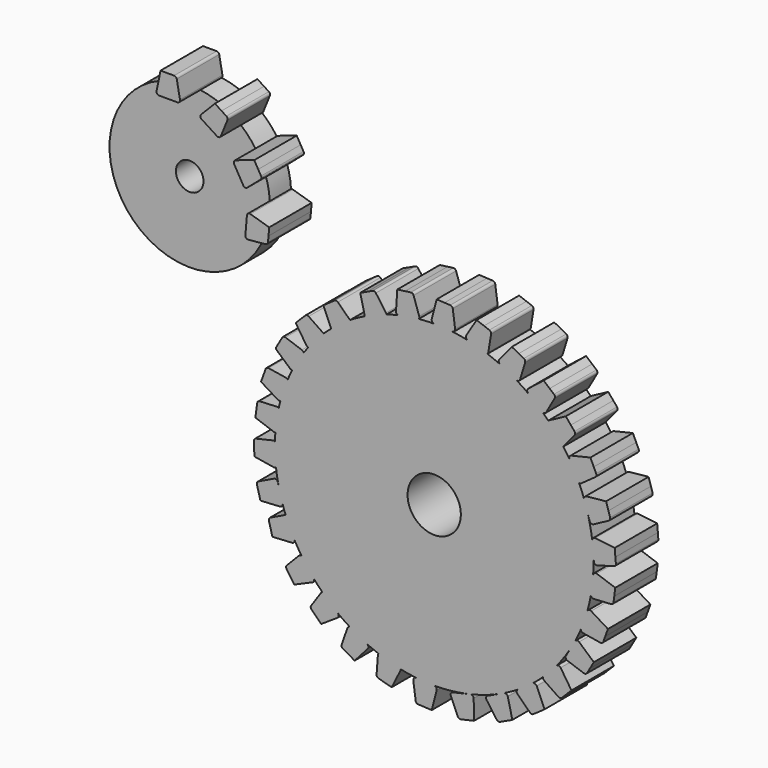
from build123d import *

# Parameters (mm, degrees)
F0_R     = 38.1
F0_R_2   = 6.3736727346
F1_DEPTH = 12.7
F2_R     = 19.1808814853
F2_R_2   = 3.2978412637
F3_DEPTH = 6.35
F5_DEPTH = 12.7
F7_DEPTH = 12.7


with BuildPart() as f1:
    # F0 (on Front) → F1 (new body)
    with BuildSketch(Plane.XZ):
        Circle(F0_R)
        Circle(F0_R_2, mode=Mode.SUBTRACT)
    extrude(amount=F1_DEPTH)

    # F4 (on face) → F5 (join)
    with BuildSketch(Plane.XZ.offset(12.7)):
        with BuildLine():
            Line((-5.6133319537, 42.892954693), (-6.9681593361, 42.7058150374))
            Line((-6.9681593361, 42.7058150374), (-8.8360873508, 42.4478017955))
            Line((-8.8360873508, 42.4478017955), (-9.1413788206, 37.7520853533))
            ThreePointArc((-9.1413788206, 37.7520853533), (-9.0252119591, 37.342888439), (-8.6768323715, 37.0988218141))
            ThreePointArc((-8.6768323715, 37.0988218141), (-6.1997040053, 37.5922022532), (-3.6953289512, 37.9203710945))
            ThreePointArc((-3.6953289512, 37.9203710945), (-3.570120266, 38.2041432186), (-3.5942600142, 38.5133698439))
            Line((-3.5942600142, 38.5133698439), (-4.9246121387, 42.4664646817))
            ThreePointArc((-4.9246121387, 42.4664646817), (-5.1921312813, 42.8037964326), (-5.6133319537, 42.892954693))
        make_face()
        with BuildLine():
            ThreePointArc((-0.5828165099, 38.8934139127), (-0.4798664959, 38.358271554), (0, 38.1))
            ThreePointArc((0, 38.1), (1.9139507452, 38.051896044), (3.8230684928, 37.9077056454))
            Line((3.8230684928, 37.9077056454), (4.3476667519, 37.881319175))
            ThreePointArc((4.3476667519, 37.881319175), (4.8474349021, 38.086188168), (5.0086926337, 38.6016835145))
            Line((5.0086926337, 38.6016835145), (4.4427176952, 42.7340518356))
            ThreePointArc((4.4427176952, 42.7340518356), (4.2431538168, 43.1155403154), (3.8461234563, 43.2820518606))
            Line((3.8461234563, 43.2820518606), (2.4802286205, 43.3521217121))
            Line((2.4802286205, 43.3521217121), (0.597041683, 43.4487284388))
            Line((0.597041683, 43.4487284388), (-0.5828165099, 38.8934139127))
        make_face()
        with BuildLine():
            ThreePointArc((7.6781040093, 38.1796137831), (7.6194962798, 37.6378193723), (8.0024553304, 37.2501101835))
            ThreePointArc((8.0024553304, 37.2501101835), (10.3980646056, 36.6536526482), (12.7500167411, 35.9033017019))
            ThreePointArc((12.7500167411, 35.9033017019), (12.8730090683, 36.0663544898), (12.9378787327, 36.2600172142))
            Line((12.9378787327, 36.2600172142), (13.6093718384, 40.3765561222))
            ThreePointArc((13.6093718384, 40.3765561222), (13.5305321264, 40.7998095943), (13.1998378538, 41.075491476))
            Line((13.1998378538, 41.075491476), (11.9146287771, 41.5432693247))
            Line((11.9146287771, 41.5432693247), (10.1426849336, 42.1882041406))
            Line((10.1426849336, 42.1882041406), (7.6781040093, 38.1796137831))
        make_face()
        with BuildLine():
            ThreePointArc((22.4822558252, 31.7557851377), (22.240396448, 31.2674409034), (22.4661533243, 30.7714470704))
            ThreePointArc((22.4661533243, 30.7714470704), (24.2760708911, 29.3646451041), (25.9981079914, 27.8515418042))
            ThreePointArc((25.9981079914, 27.8515418042), (26.4298800743, 27.8585283839), (26.757345125, 28.1400289779))
            Line((26.757345125, 28.1400289779), (28.8073025475, 31.7724483008))
            ThreePointArc((28.8073025475, 31.7724483008), (28.8792657947, 32.1969250292), (28.6639327804, 32.5697398555))
            Line((28.6639327804, 32.5697398555), (27.6188906483, 33.4520467345))
            Line((27.6188906483, 33.4520467345), (26.1780698466, 34.6685011391))
            Line((26.1780698466, 34.6685011391), (22.4822558252, 31.7557851377))
        make_face()
        with BuildLine():
            ThreePointArc((27.3333850928, 26.6125894026), (27.3114712326, 26.6001647015), (27.2900674196, 26.5868806037))
            ThreePointArc((27.2900674196, 26.5868806037), (29.1746127181, 24.5041215462), (30.9005960882, 22.288184345))
            ThreePointArc((30.9005960882, 22.288184345), (30.9149102964, 22.3039975831), (30.928685337, 22.3202826473))
            Line((30.928685337, 22.3202826473), (33.5684848789, 25.5495633644))
            ThreePointArc((33.5684848789, 25.5495633644), (33.7118344216, 25.9555314794), (33.5632857215, 26.3596261287))
            Line((33.5632857215, 26.3596261287), (32.6841509363, 27.4073381673))
            Line((32.6841509363, 27.4073381673), (31.4720699617, 28.8518400234))
            Line((31.4720699617, 28.8518400234), (27.3333850928, 26.6125894026))
        make_face()
        with BuildLine():
            ThreePointArc((32.7891494179, 20.9953140808), (32.364600993, 20.6536495019), (32.3612421381, 20.1087047638))
            ThreePointArc((32.3612421381, 20.1087047638), (33.5819924942, 17.9961045818), (34.6650171223, 15.8096991721))
            ThreePointArc((34.6650171223, 15.8096991721), (34.9191509372, 15.8145771706), (35.1510120413, 15.9187319554))
            Line((35.1510120413, 15.9187319554), (38.5366619467, 18.3547472037))
            ThreePointArc((38.5366619467, 18.3547472037), (38.780199252, 18.709780699), (38.7412996174, 19.1385533896))
            Line((38.7412996174, 19.1385533896), (38.1632884529, 20.3781023319))
            Line((38.1632884529, 20.3781023319), (37.366372727, 22.0870936212))
            Line((37.366372727, 22.0870936212), (32.7891494179, 20.9953140808))
        make_face()
        with BuildLine():
            ThreePointArc((36.4331734182, 13.606153238), (35.9669321561, 13.3240271403), (35.8910812687, 12.7843766123))
            ThreePointArc((35.8910812687, 12.7843766123), (36.3546601236, 11.3995038182), (36.7648248936, 9.997882303))
            Line((36.7648248936, 9.997882303), (37.1935457683, 8.6306296633))
            ThreePointArc((37.1935457683, 8.6306296633), (37.5590011365, 8.2329088038), (38.0984298655, 8.26040707))
            Line((38.0984298655, 8.26040707), (41.778152748, 10.2241878825))
            ThreePointArc((41.778152748, 10.2241878825), (42.0667721117, 10.5436531619), (42.0852800756, 10.9737887883))
            Line((42.0852800756, 10.9737887883), (41.6773709241, 12.27923454))
            Line((41.6773709241, 12.27923454), (41.1149782964, 14.0790790982))
            Line((41.1149782964, 14.0790790982), (36.4331734182, 13.606153238))
        make_face()
        with BuildLine():
            ThreePointArc((38.5019919868, 5.4850229618), (37.9861907966, 5.3091673913), (37.796652428, 4.7982356382))
            ThreePointArc((37.796652428, 4.7982356382), (37.9516831399, 3.3585334371), (38.0518945723, 1.913980005))
            Line((38.0518945723, 1.913980005), (38.1803858467, 0.4620188363))
            ThreePointArc((38.1803858467, 0.4620188363), (38.4522997231, -0.0046741592), (38.9851235192, -0.0932083933))
            Line((38.9851235192, -0.0932083933), (42.9997600362, 1.0379366938))
            ThreePointArc((42.9997600362, 1.0379366938), (43.3500388519, 1.2882643853), (43.4601340494, 1.7044833773))
            Line((43.4601340494, 1.7044833773), (43.3409319303, 3.0669698328))
            Line((43.3409319303, 3.0669698328), (43.176585549, 4.9454575671))
            Line((43.176585549, 4.9454575671), (38.5019919868, 5.4850229618))
        make_face()
        with BuildLine():
            ThreePointArc((38.860824647, -1.8686145443), (38.3193613508, -1.9302063326), (38.0250367695, -2.3888446328))
            ThreePointArc((38.0250367695, -2.3888446328), (37.8163601745, -4.6403559297), (37.4744871005, -6.8755230024))
            ThreePointArc((37.4744871005, -6.8755230024), (37.7010473557, -7.2786909936), (38.1409870584, -7.4212639096))
            Line((38.1409870584, -7.4212639096), (42.3045969501, -7.173982206))
            ThreePointArc((42.3045969501, -7.173982206), (42.7002711865, -7.004273336), (42.8967512016, -6.6211874377))
            Line((42.8967512016, -6.6211874377), (43.071402672, -5.2646936669))
            Line((43.071402672, -5.2646936669), (43.3121981995, -3.3944681684))
            Line((43.3121981995, -3.3944681684), (38.860824647, -1.8686145443))
        make_face()
        with BuildLine():
            ThreePointArc((37.5494194901, -10.19191038), (37.0076250794, -10.1333026506), (36.6199158906, -10.5162617012))
            ThreePointArc((36.6199158906, -10.5162617012), (35.9231701651, -12.6939294659), (35.097054119, -14.825882509))
            ThreePointArc((35.097054119, -14.825882509), (35.248541107, -15.2366002066), (35.6298229213, -15.4516851034))
            Line((35.6298229213, -15.4516851034), (39.7463618292, -16.1231782091))
            ThreePointArc((39.7463618292, -16.1231782091), (40.1696153013, -16.0443384972), (40.4452971831, -15.7136442246))
            Line((40.4452971831, -15.7136442246), (40.9130750318, -14.4284351479))
            Line((40.9130750318, -14.4284351479), (41.5580098476, -12.6564913044))
            Line((41.5580098476, -12.6564913044), (37.5494194901, -10.19191038))
        make_face()
        with BuildLine():
            ThreePointArc((34.6662178073, -17.6265220224), (34.1428315964, -17.4747230639), (33.6945124401, -17.7845391119))
            ThreePointArc((33.6945124401, -17.7845391119), (33.0145744685, -19.0170416381), (32.289573184, -20.2235868133))
            Line((32.289573184, -20.2235868133), (31.5216966741, -21.5566604164))
            ThreePointArc((31.5216966741, -21.5566604164), (31.4767513766, -22.09491633), (31.8624339279, -22.473054503))
            Line((31.8624339279, -22.473054503), (35.7998298059, -23.8491755992))
            ThreePointArc((35.7998298059, -23.8491755992), (36.2303434791, -23.8450308338), (36.5592615914, -23.5672322066))
            Line((36.5592615914, -23.5672322066), (37.2431070576, -22.3827771147))
            Line((37.2431070576, -22.3827771147), (38.1859386837, -20.7497448352))
            Line((38.1859386837, -20.7497448352), (34.6662178073, -17.6265220224))
        make_face()
        with BuildLine():
            ThreePointArc((30.2427903378, -24.4970072023), (29.7765265411, -24.2149183486), (29.2632971959, -24.3981441348))
            ThreePointArc((29.2632971959, -24.3981441348), (27.6895109519, -26.1706129704), (26.0085526005, -27.8417885853))
            ThreePointArc((26.0085526005, -27.8417885853), (26.057443176, -28.1858994081), (26.2801681687, -28.452725427))
            Line((26.2801681687, -28.452725427), (29.7272341875, -30.8010293753))
            ThreePointArc((29.7272341875, -30.8010293753), (30.1441512072, -30.9084509771), (30.533761282, -30.7252483803))
            Line((30.533761282, -30.7252483803), (31.5008648149, -29.7581448475))
            Line((31.5008648149, -29.7581448475), (32.8342300876, -28.4247795747))
            Line((32.8342300876, -28.4247795747), (30.2427903378, -24.4970072023))
        make_face()
        with BuildLine():
            ThreePointArc((24.5151394805, -30.2036100452), (24.104943494, -29.8448408963), (23.5676944319, -29.9361617307))
            ThreePointArc((23.5676944319, -29.9361617307), (21.8844168459, -31.187854997), (20.1348026242, -32.3450107943))
            Line((20.1348026242, -32.3450107943), (20.0042872346, -32.4365930205))
            ThreePointArc((20.0042872346, -32.4365930205), (19.7360761829, -32.9054238429), (19.9258151851, -33.4111299031))
            Line((19.9258151851, -33.4111299031), (22.9127338243, -36.3223345703))
            ThreePointArc((22.9127338243, -36.3223345703), (23.3046633723, -36.5005210773), (23.7201671917, -36.3877568191))
            Line((23.7201671917, -36.3877568191), (24.8405140149, -35.6032815281))
            Line((24.8405140149, -35.6032815281), (26.3851589229, -34.5217095197))
            Line((26.3851589229, -34.5217095197), (24.5151394805, -30.2036100452))
        make_face()
        with BuildLine():
            ThreePointArc((17.6005146356, -34.6661223179), (17.2588500567, -34.2415738931), (16.7139053186, -34.2382150382))
            ThreePointArc((16.7139053186, -34.2382150382), (16.1362291945, -34.5142305055), (15.5539966486, -34.7805001151))
            Line((15.5539966486, -34.7805001151), (12.7704389467, -36.0818799922))
            ThreePointArc((12.7704389467, -36.0818799922), (12.4248910056, -36.4970138606), (12.5239325102, -37.0279849414))
            Line((12.5239325102, -37.0279849414), (14.9599477585, -40.4136348467))
            ThreePointArc((14.9599477585, -40.4136348467), (15.3149812537, -40.6571721521), (15.7437539444, -40.6182725175))
            Line((15.7437539444, -40.6182725175), (16.9833028867, -40.040261353))
            Line((16.9833028867, -40.040261353), (18.692294176, -39.2433456271))
            Line((18.692294176, -39.2433456271), (17.6005146356, -34.6661223179))
        make_face()
        with BuildLine():
            ThreePointArc((8.6662900741, -37.1012859124), (8.4793952658, -37.1444458288), (8.2922855391, -37.1866642836))
            Line((8.2922855391, -37.1866642836), (4.4223051761, -38.0701097742))
            ThreePointArc((4.4223051761, -38.0701097742), (3.9968447015, -38.4028602704), (3.9814609989, -38.9427703092))
            Line((3.9814609989, -38.9427703092), (5.6471231908, -42.7666904227))
            ThreePointArc((5.6471231908, -42.7666904227), (5.9426840665, -43.0797446841), (6.3699956086, -43.1323188965))
            Line((6.3699956086, -43.1323188965), (7.7036879234, -42.829262308))
            Line((7.7036879234, -42.829262308), (9.5424765916, -42.4114320374))
            Line((9.5424765916, -42.4114320374), (9.4424699067, -37.7068646344))
            ThreePointArc((9.4424699067, -37.7068646344), (9.1982220618, -37.2197106138), (8.6662900741, -37.1012859124))
        make_face()
        with BuildLine():
            ThreePointArc((0, -38.1), (-1.8327168808, -38.0558950602), (-3.6611906189, -37.9236823535))
            Line((-3.6611906189, -37.9236823535), (-4.3481236645, -37.8906006513))
            ThreePointArc((-4.3481236645, -37.8906006513), (-4.8474533415, -38.0965360342), (-5.0076102761, -38.6123744435))
            Line((-5.0076102761, -38.6123744435), (-4.4328152474, -42.7435251606))
            ThreePointArc((-4.4328152474, -42.7435251606), (-4.232437459, -43.1245867616), (-3.8350525504, -43.2902503854))
            Line((-3.8350525504, -43.2902503854), (-2.4690112485, -43.3574042972))
            Line((-2.4690112485, -43.3574042972), (-0.5856223751, -43.4499907586))
            Line((-0.5856223751, -43.4499907586), (0.5845088852, -38.8921679647))
            ThreePointArc((0.5845088852, -38.8921679647), (0.4804167357, -38.357246593), (0, -38.1))
        make_face()
        with BuildLine():
            ThreePointArc((-8.0019145364, -37.2502263584), (-10.6805723748, -36.5723307125), (-13.3030556874, -35.7020827036))
            ThreePointArc((-13.3030556874, -35.7020827036), (-13.4232981678, -35.8822263083), (-13.4760026913, -36.0923029743))
            Line((-13.4760026913, -36.0923029743), (-13.7861605569, -40.2517016893))
            ThreePointArc((-13.7861605569, -40.2517016893), (-13.6707318831, -40.6664732205), (-13.3172687429, -40.9122841445))
            Line((-13.3172687429, -40.9122841445), (-11.9961807489, -41.2662686056))
            Line((-11.9961807489, -41.2662686056), (-10.1747699138, -41.754314168))
            Line((-10.1747699138, -41.754314168), (-8.0689391339, -37.546175326))
            ThreePointArc((-8.0689391339, -37.546175326), (-8.01748914, -37.4022632547), (-8.0019145364, -37.2502263584))
        make_face()
        with BuildLine():
            ThreePointArc((-16.0726677932, -34.5438757236), (-18.1832762275, -33.4810164964), (-20.223933673, -32.2893559364))
            ThreePointArc((-20.223933673, -32.2893559364), (-20.5542383627, -32.422133684), (-20.7611831843, -32.7117972114))
            Line((-20.7611831843, -32.7117972114), (-22.1373042805, -36.6491930895))
            ThreePointArc((-22.1373042805, -36.6491930895), (-22.1331595151, -37.0797067626), (-21.8553608879, -37.4086248749))
            Line((-21.8553608879, -37.4086248749), (-20.6709057959, -38.0924703411))
            Line((-20.6709057959, -38.0924703411), (-19.0378735164, -39.0353019672))
            Line((-19.0378735164, -39.0353019672), (-15.9146507036, -35.5155810908))
            ThreePointArc((-15.9146507036, -35.5155810908), (-15.7628517451, -34.9921948799), (-16.0726677932, -34.5438757236))
        make_face()
        with BuildLine():
            ThreePointArc((-23.0280282348, -30.3532521423), (-24.9442850962, -28.7991777841), (-26.7559404878, -27.1243368327))
            ThreePointArc((-26.7559404878, -27.1243368327), (-26.93959516, -27.2202229145), (-27.082609527, -27.3701231151))
            Line((-27.082609527, -27.3701231151), (-29.4309134753, -30.817189134))
            ThreePointArc((-29.4309134753, -30.817189134), (-29.5383350771, -31.2341061536), (-29.3551324803, -31.6237162284))
            Line((-29.3551324803, -31.6237162284), (-28.3880289475, -32.5908197613))
            Line((-28.3880289475, -32.5908197613), (-27.0546636747, -33.9241850341))
            Line((-27.0546636747, -33.9241850341), (-23.1268913023, -31.3327452842))
            ThreePointArc((-23.1268913023, -31.3327452842), (-22.8448024486, -30.8664814875), (-23.0280282348, -30.3532521423))
        make_face()
        with BuildLine():
            ThreePointArc((-28.8584245617, -24.8757177146), (-30.3664314146, -23.0106463), (-31.7540993293, -21.0543861413))
            ThreePointArc((-31.7540993293, -21.0543861413), (-32.0665532749, -21.0704878169), (-32.3333927341, -21.2338384678))
            Line((-32.3333927341, -21.2338384678), (-35.2445974013, -24.220757107))
            ThreePointArc((-35.2445974013, -24.220757107), (-35.4227839083, -24.612686655), (-35.3100196501, -25.0281904744))
            Line((-35.3100196501, -25.0281904744), (-34.5255443591, -26.1485372976))
            Line((-34.5255443591, -26.1485372976), (-33.4439723507, -27.6931822056))
            Line((-33.4439723507, -27.6931822056), (-29.1258728762, -25.8231627632))
            ThreePointArc((-29.1258728762, -25.8231627632), (-28.7671037274, -25.4129667767), (-28.8584245617, -24.8757177146))
        make_face()
        with BuildLine():
            ThreePointArc((-16.5973614585, 34.2948624814), (-14.0388393953, 35.419217784), (-11.4047830745, 36.3530043191))
            ThreePointArc((-11.4047830745, 36.3530043191), (-11.4430138669, 36.5124142022), (-11.5207793331, 36.6567251048))
            Line((-11.5207793331, 36.6567251048), (-13.9567945814, 40.0423750102))
            ThreePointArc((-13.9567945814, 40.0423750102), (-14.3118280766, 40.2859123155), (-14.7406007673, 40.2470126809))
            Line((-14.7406007673, 40.2470126809), (-15.9801497096, 39.6690015164))
            Line((-15.9801497096, 39.6690015164), (-17.6891409989, 38.8720857905))
            Line((-17.6891409989, 38.8720857905), (-16.5973614585, 34.2948624814))
        make_face()
        with BuildLine():
            ThreePointArc((-24.6518830672, 29.0498650813), (-22.4589980455, 30.7766698457), (-20.1455785434, 32.3383002824))
            Line((-20.1455785434, 32.3383002824), (-23.049477411, 35.1685896064))
            ThreePointArc((-23.049477411, 35.1685896064), (-23.441406959, 35.3467761134), (-23.8569107784, 35.2340118552))
            Line((-23.8569107784, 35.2340118552), (-24.9772576016, 34.4495365642))
            Line((-24.9772576016, 34.4495365642), (-26.5219025095, 33.3679645558))
            Line((-26.5219025095, 33.3679645558), (-24.6518830672, 29.0498650813))
        make_face()
        with BuildLine():
            ThreePointArc((-36.7805576297, 9.9398481099), (-36.0070046406, 12.4541405489), (-35.0618006588, 14.9090621625))
            ThreePointArc((-35.0618006588, 14.9090621625), (-35.2501426299, 15.10962457), (-35.5056416593, 15.2116942685))
            Line((-35.5056416593, 15.2116942685), (-39.6221805673, 15.8831873742))
            ThreePointArc((-39.6221805673, 15.8831873742), (-40.0454340394, 15.8043476623), (-40.3211159211, 15.4736533897))
            Line((-40.3211159211, 15.4736533897), (-40.7888937698, 14.188444313))
            Line((-40.7888937698, 14.188444313), (-41.4338285856, 12.4165004695))
            Line((-41.4338285856, 12.4165004695), (-37.4252382282, 9.9519195452))
            ThreePointArc((-37.4252382282, 9.9519195452), (-37.104544106, 9.8579689793), (-36.7805576297, 9.9398481099))
        make_face()
        with BuildLine():
            ThreePointArc((-37.9936602842, 2.8446051056), (-37.6882363784, 5.5863081442), (-37.185227898, 8.2987243702))
            ThreePointArc((-37.185227898, 8.2987243702), (-37.3713487354, 8.3859962799), (-37.5755966068, 8.4092376079))
            Line((-37.5755966068, 8.4092376079), (-41.741480505, 8.2037943821))
            ThreePointArc((-41.741480505, 8.2037943821), (-42.1388396053, 8.0380688645), (-42.3391580379, 7.6569760576))
            Line((-42.3391580379, 7.6569760576), (-42.5274275027, 6.3023052138))
            Line((-42.5274275027, 6.3023052138), (-42.7869984358, 4.4345930219))
            Line((-42.7869984358, 4.4345930219), (-38.3511776226, 2.864099628))
            ThreePointArc((-38.3511776226, 2.864099628), (-38.1738214108, 2.8286321762), (-37.9936602842, 2.8446051056))
        make_face()
        with BuildLine():
            ThreePointArc((-33.4329385069, -18.2715249171), (-34.5663449419, -16.0242877332), (-35.5489072036, -13.7071221134))
            Line((-35.5489072036, -13.7071221134), (-39.2099682784, -15.4718635174))
            ThreePointArc((-39.2099682784, -15.4718635174), (-39.5114566243, -15.7792134468), (-39.5476035589, -16.2082269675))
            Line((-39.5476035589, -16.2082269675), (-39.1936190978, -17.5293149615))
            Line((-39.1936190978, -17.5293149615), (-38.7055735354, -19.3507257966))
            Line((-38.7055735354, -19.3507257966), (-34.0083030057, -19.0703593271))
            ThreePointArc((-34.0083030057, -19.0703593271), (-33.5308749939, -18.8076074611), (-33.4329385069, -18.2715249171))
        make_face()
        with BuildLine():
            ThreePointArc((-36.2966380714, -11.5829212513), (-36.7919085851, -9.8977503842), (-37.2089855849, -8.191543917))
            Line((-37.2089855849, -8.191543917), (-37.4275178629, -7.379215935))
            ThreePointArc((-37.4275178629, -7.379215935), (-37.7763411447, -6.9668304038), (-38.3164439585, -6.9721650849))
            Line((-38.3164439585, -6.9721650849), (-42.073667843, -8.7832598516))
            ThreePointArc((-42.073667843, -8.7832598516), (-42.3751561889, -9.090609781), (-42.4113031235, -9.5196233017))
            Line((-42.4113031235, -9.5196233017), (-42.0573186623, -10.8407112957))
            Line((-42.0573186623, -10.8407112957), (-41.5692731, -12.6621221308))
            Line((-41.5692731, -12.6621221308), (-36.8720025703, -12.3817556613))
            ThreePointArc((-36.8720025703, -12.3817556613), (-36.3945745585, -12.1190037953), (-36.2966380714, -11.5829212513))
        make_face()
        with BuildLine():
            ThreePointArc((-37.8391164648, -4.4509847407), (-38.0583831472, -1.7803011604), (-38.0893877503, 0.8991889737))
            ThreePointArc((-38.0893877503, 0.8991889737), (-38.3280018375, 0.995847484), (-38.5853796338, 0.9898291596))
            Line((-38.5853796338, 0.9898291596), (-42.648846462, 0.0490672835))
            ThreePointArc((-42.648846462, 0.0490672835), (-43.0105291759, -0.1844810335), (-43.1401099882, -0.5950513867))
            Line((-43.1401099882, -0.5950513867), (-43.0852262096, -1.9616406656))
            Line((-43.0852262096, -1.9616406656), (-43.0095568299, -3.845785046))
            Line((-43.0095568299, -3.845785046), (-38.3655719451, -4.604968934))
            ThreePointArc((-38.3655719451, -4.604968934), (-38.0848603676, -4.5877522065), (-37.8391164648, -4.4509847407))
        make_face()
        with BuildLine():
            ThreePointArc((15.5754481112, 35.6477157922), (15.4438585305, 35.1188866783), (15.7706610238, 34.6827947385))
            ThreePointArc((15.7706610238, 34.6827947385), (17.7336223305, 33.7213380375), (19.6382177957, 32.6488958742))
            ThreePointArc((19.6382177957, 32.6488958742), (20.1706567548, 32.635420399), (20.5260682946, 33.0321009644))
            Line((20.5260682946, 33.0321009644), (21.749983045, 37.0194344413))
            ThreePointArc((21.749983045, 37.0194344413), (21.7293101094, 37.4494714531), (21.4390862859, 37.7674798399))
            Line((21.4390862859, 37.7674798399), (20.2292458638, 38.4053392598))
            Line((20.2292458638, 38.4053392598), (18.5612143143, 39.2847689905))
            Line((18.5612143143, 39.2847689905), (15.5754481112, 35.6477157922))
        make_face()
        with BuildLine():
            ThreePointArc((-30.1364389457, 23.3110499049), (-28.3697200617, 25.4316531831), (-26.4541128881, 27.4187875608))
            ThreePointArc((-26.4541128881, 27.4187875608), (-26.5166558068, 27.4849098202), (-26.5880092952, 27.5414115863))
            Line((-26.5880092952, 27.5414115863), (-30.035075314, 29.8897155346))
            ThreePointArc((-30.035075314, 29.8897155346), (-30.4519923337, 29.9971371364), (-30.8416024085, 29.8139345396))
            Line((-30.8416024085, 29.8139345396), (-31.8087059413, 28.8468310068))
            Line((-31.8087059413, 28.8468310068), (-33.1420712141, 27.513465734))
            Line((-33.1420712141, 27.513465734), (-30.5506314643, 23.5856933616))
            ThreePointArc((-30.5506314643, 23.5856933616), (-30.371519312, 23.4061685243), (-30.1364389457, 23.3110499049))
        make_face()
        with BuildLine():
            ThreePointArc((-3.6953289512, 37.9203710945), (-6.1997040053, 37.5922022532), (-8.6768323715, 37.0988218141))
            ThreePointArc((-8.6768323715, 37.0988218141), (-8.5493805224, 37.077256187), (-8.420202183, 37.0819473239))
            Line((-8.420202183, 37.0819473239), (-4.1085790233, 37.6818916693))
            ThreePointArc((-4.1085790233, 37.6818916693), (-3.878703892, 37.7608423568), (-3.6953289512, 37.9203710945))
        make_face()
        with BuildLine():
            ThreePointArc((3.8230684928, 37.9077056454), (1.9139507452, 38.051896044), (0, 38.1))
            Line((0, 38.1), (3.8230684928, 37.9077056454))
        make_face()
        with BuildLine():
            ThreePointArc((12.7500167411, 35.9033017019), (10.3980646056, 36.6536526482), (8.0024553304, 37.2501101835))
            Line((8.0024553304, 37.2501101835), (12.0945751346, 35.7653263618))
            ThreePointArc((12.0945751346, 35.7653263618), (12.4419673863, 35.7408662771), (12.7500167411, 35.9033017019))
        make_face()
        with BuildLine():
            ThreePointArc((25.9981079914, 27.8515418042), (24.2760708911, 29.3646451041), (22.4661533243, 30.7714470704))
            Line((22.4661533243, 30.7714470704), (25.7951742911, 27.9665144702))
            ThreePointArc((25.7951742911, 27.9665144702), (25.8913170833, 27.8996308533), (25.9981079914, 27.8515418042))
        make_face()
        with BuildLine():
            ThreePointArc((30.9005960882, 22.288184345), (29.1746127181, 24.5041215462), (27.2900674196, 26.5868806037))
            ThreePointArc((27.2900674196, 26.5868806037), (27.0075193398, 26.1478492182), (27.1495297768, 25.6454400119))
            Line((27.1495297768, 25.6454400119), (29.9510175717, 22.3135196011))
            ThreePointArc((29.9510175717, 22.3135196011), (30.4201118499, 22.0874011714), (30.9005960882, 22.288184345))
        make_face()
        with BuildLine():
            ThreePointArc((34.6650171223, 15.8096991721), (33.5819924942, 17.9961045818), (32.3612421381, 20.1087047638))
            Line((32.3612421381, 20.1087047638), (34.2049070921, 16.1652383919))
            ThreePointArc((34.2049070921, 16.1652383919), (34.3918753426, 15.9317093849), (34.6650171223, 15.8096991721))
        make_face()
        with BuildLine():
            ThreePointArc((36.7648248936, 9.997882303), (36.3546601236, 11.3995038182), (35.8910812687, 12.7843766123))
            Line((35.8910812687, 12.7843766123), (36.7648248936, 9.997882303))
        make_face()
        with BuildLine():
            ThreePointArc((38.0518945723, 1.913980005), (37.9516831399, 3.3585334371), (37.796652428, 4.7982356382))
            Line((37.796652428, 4.7982356382), (38.0518945723, 1.913980005))
        make_face()
        with BuildLine():
            ThreePointArc((37.4744871005, -6.8755230024), (37.8163601745, -4.6403559297), (38.0250367695, -2.3888446328))
            Line((38.0250367695, -2.3888446328), (37.4734580251, -6.7069215633))
            ThreePointArc((37.4734580251, -6.7069215633), (37.468351825, -6.7912565895), (37.4744871005, -6.8755230024))
        make_face()
        with BuildLine():
            ThreePointArc((35.097054119, -14.825882509), (35.9231701651, -12.6939294659), (36.6199158906, -10.5162617012))
            Line((36.6199158906, -10.5162617012), (35.1351320688, -14.6083815053))
            ThreePointArc((35.1351320688, -14.6083815053), (35.1065665743, -14.7154641972), (35.097054119, -14.825882509))
        make_face()
        with BuildLine():
            ThreePointArc((32.289573184, -20.2235868133), (33.0145744685, -19.0170416381), (33.6945124401, -17.7845391119))
            Line((33.6945124401, -17.7845391119), (32.289573184, -20.2235868133))
        make_face()
        with BuildLine():
            ThreePointArc((26.0085526005, -27.8417885853), (27.6895109519, -26.1706129704), (29.2632971959, -24.3981441348))
            Line((29.2632971959, -24.3981441348), (26.1882214977, -27.4793674211))
            ThreePointArc((26.1882214977, -27.4793674211), (26.0687564407, -27.6458887431), (26.0085526005, -27.8417885853))
        make_face()
        with BuildLine():
            ThreePointArc((20.1348026242, -32.3450107943), (21.8844168459, -31.187854997), (23.5676944319, -29.9361617307))
            Line((23.5676944319, -29.9361617307), (20.1348026242, -32.3450107943))
        make_face()
        with BuildLine():
            ThreePointArc((15.5539966486, -34.7805001151), (16.1362291945, -34.5142305055), (16.7139053186, -34.2382150382))
            Line((16.7139053186, -34.2382150382), (15.5539966486, -34.7805001151))
        make_face()
        with BuildLine():
            ThreePointArc((8.6662900741, -37.1012859124), (8.4793952658, -37.1444458288), (8.2922855391, -37.1866642836))
            Line((8.2922855391, -37.1866642836), (4.4223051761, -38.0701097742))
            ThreePointArc((4.4223051761, -38.0701097742), (3.9968447015, -38.4028602704), (3.9814609989, -38.9427703092))
            Line((3.9814609989, -38.9427703092), (5.6471231908, -42.7666904227))
            ThreePointArc((5.6471231908, -42.7666904227), (5.9426840665, -43.0797446841), (6.3699956086, -43.1323188965))
            Line((6.3699956086, -43.1323188965), (7.7036879234, -42.829262308))
            Line((7.7036879234, -42.829262308), (9.5424765916, -42.4114320374))
            Line((9.5424765916, -42.4114320374), (9.4424699067, -37.7068646344))
            ThreePointArc((9.4424699067, -37.7068646344), (9.1982220618, -37.2197106138), (8.6662900741, -37.1012859124))
        make_face()
        with BuildLine():
            Line((0, -38.1), (-3.6611906189, -37.9236823535))
            ThreePointArc((-3.6611906189, -37.9236823535), (-1.8327168808, -38.0558950602), (0, -38.1))
        make_face()
        with BuildLine():
            ThreePointArc((-12.6790232666, -35.5259958185), (-13.0152085111, -35.528386881), (-13.3030556874, -35.7020827036))
            ThreePointArc((-13.3030556874, -35.7020827036), (-10.6805723748, -36.5723307125), (-8.0019145364, -37.2502263584))
            ThreePointArc((-8.0019145364, -37.2502263584), (-8.136828197, -36.8705356563), (-8.473067777, -36.6484778486))
            Line((-8.473067777, -36.6484778486), (-12.6790232666, -35.5259958185))
        make_face()
        with BuildLine():
            ThreePointArc((-19.8447890977, -32.3710599577), (-20.0279707924, -32.30055263), (-20.223933673, -32.2893559364))
            ThreePointArc((-20.223933673, -32.2893559364), (-18.1832762275, -33.4810164964), (-16.0726677932, -34.5438757236))
            Line((-16.0726677932, -34.5438757236), (-19.8447890977, -32.3710599577))
        make_face()
        with BuildLine():
            ThreePointArc((-26.1092515211, -27.2781764441), (-26.4108577892, -27.1098766369), (-26.7559404878, -27.1243368327))
            ThreePointArc((-26.7559404878, -27.1243368327), (-24.9442850962, -28.7991777841), (-23.0280282348, -30.3532521423))
            Line((-23.0280282348, -30.3532521423), (-26.1092515211, -27.2781764441))
        make_face()
        with BuildLine():
            ThreePointArc((-31.3588558516, -21.3123105173), (-31.5316253082, -21.1452646763), (-31.7540993293, -21.0543861413))
            ThreePointArc((-31.7540993293, -21.0543861413), (-30.3664314146, -23.0106463), (-28.8584245617, -24.8757177146))
            Line((-28.8584245617, -24.8757177146), (-31.3588558516, -21.3123105173))
        make_face()
        with BuildLine():
            ThreePointArc((-11.7672857695, 35.7106201556), (-11.4832002835, 35.9737820827), (-11.4047830745, 36.3530043191))
            ThreePointArc((-11.4047830745, 36.3530043191), (-14.0388393953, 35.419217784), (-16.5973614585, 34.2948624814))
            ThreePointArc((-16.5973614585, 34.2948624814), (-16.2556968796, 33.8703140565), (-15.7107521414, 33.8669552016))
            Line((-15.7107521414, 33.8669552016), (-11.7672857695, 35.7106201556))
        make_face()
        with BuildLine():
            Line((-20.0625587718, 32.2573849392), (-20.1455785434, 32.3383002824))
            ThreePointArc((-20.1455785434, 32.3383002824), (-22.4589980455, 30.7766698457), (-24.6518830672, 29.0498650813))
            ThreePointArc((-24.6518830672, 29.0498650813), (-24.2416870807, 28.6910959325), (-23.7044380185, 28.7824167668))
            Line((-23.7044380185, 28.7824167668), (-20.1410308212, 31.2828480567))
            ThreePointArc((-20.1410308212, 31.2828480567), (-19.8728197695, 31.751678879), (-20.0625587718, 32.2573849392))
        make_face()
        with BuildLine():
            ThreePointArc((-35.0109508069, 14.3683906705), (-34.9756620864, 14.644436501), (-35.0618006588, 14.9090621625))
            ThreePointArc((-35.0618006588, 14.9090621625), (-36.0070046406, 12.4541405489), (-36.7805576297, 9.9398481099))
            ThreePointArc((-36.7805576297, 9.9398481099), (-36.6080176924, 10.0825520823), (-36.4957346286, 10.2762708663))
            Line((-36.4957346286, 10.2762708663), (-35.0109508069, 14.3683906705))
        make_face()
        with BuildLine():
            ThreePointArc((-36.9152772605, 7.6882255699), (-36.9635619148, 8.0318078875), (-37.185227898, 8.2987243702))
            ThreePointArc((-37.185227898, 8.2987243702), (-37.6882363784, 5.5863081442), (-37.9936602842, 2.8446051056))
            ThreePointArc((-37.9936602842, 2.8446051056), (-37.6695849054, 3.0353242083), (-37.5102058891, 3.3759074676))
            Line((-37.5102058891, 3.3759074676), (-36.9152772605, 7.6882255699))
        make_face()
        with BuildLine():
            Line((-35.452744394, -13.6607687507), (-35.5489072036, -13.7071221134))
            ThreePointArc((-35.5489072036, -13.7071221134), (-34.5663449419, -16.0242877332), (-33.4329385069, -18.2715249171))
            Line((-33.4329385069, -18.2715249171), (-34.5638182984, -14.0678196008))
            ThreePointArc((-34.5638182984, -14.0678196008), (-34.9126415802, -13.6554340696), (-35.452744394, -13.6607687507))
        make_face()
        with BuildLine():
            Line((-36.2966380714, -11.5829212513), (-37.2089855849, -8.191543917))
            ThreePointArc((-37.2089855849, -8.191543917), (-36.7919085851, -9.8977503842), (-36.2966380714, -11.5829212513))
        make_face()
        with BuildLine():
            ThreePointArc((-37.807691887, 0.3973076271), (-37.8884157005, 0.6819947536), (-38.0893877503, 0.8991889737))
            ThreePointArc((-38.0893877503, 0.8991889737), (-38.0583831472, -1.7803011604), (-37.8391164648, -4.4509847407))
            ThreePointArc((-37.8391164648, -4.4509847407), (-37.6780656671, -4.2251310252), (-37.6286613248, -3.9521722897))
            Line((-37.6286613248, -3.9521722897), (-37.807691887, 0.3973076271))
        make_face()
        with BuildLine():
            ThreePointArc((19.6382177957, 32.6488958742), (17.7336223305, 33.7213380375), (15.7706610238, 34.6827947385))
            Line((15.7706610238, 34.6827947385), (19.6234339719, 32.6564265343))
            ThreePointArc((19.6234339719, 32.6564265343), (19.6308012876, 32.6526129181), (19.6382177957, 32.6488958742))
        make_face()
        with BuildLine():
            ThreePointArc((-26.4960626242, 26.5680535803), (-26.3112941739, 26.9853439007), (-26.4541128881, 27.4187875608))
            ThreePointArc((-26.4541128881, 27.4187875608), (-28.3697200617, 25.4316531831), (-30.1364389457, 23.3110499049))
            ThreePointArc((-30.1364389457, 23.3110499049), (-29.8320509365, 23.3290327906), (-29.5711383224, 23.4868302941))
            Line((-29.5711383224, 23.4868302941), (-26.4960626242, 26.5680535803))
        make_face()
        with BuildLine():
            ThreePointArc((-31.3179537991, 21.3786404672), (-31.2427899653, 21.5856302248), (-31.2428414597, 21.8058445726))
            ThreePointArc((-31.2428414597, 21.8058445726), (-32.6734702388, 19.5973044717), (-33.9482427748, 17.2952829552))
            ThreePointArc((-33.9482427748, 17.2952829552), (-33.6838244313, 17.3984539493), (-33.4907695651, 17.6065191627))
            Line((-33.4907695651, 17.6065191627), (-31.3179537991, 21.3786404672))
        make_face()
        with BuildLine():
            ThreePointArc((-33.9482427748, 17.2952829552), (-32.6734702388, 19.5973044717), (-31.2428414597, 21.8058445726))
            ThreePointArc((-31.2428414597, 21.8058445726), (-31.3843838397, 22.1068697887), (-31.6586910529, 22.2950345538))
            Line((-31.6586910529, 22.2950345538), (-35.5960869309, 23.67115565))
            ThreePointArc((-35.5960869309, 23.67115565), (-36.0266006041, 23.6670108845), (-36.3555187164, 23.3892122574))
            Line((-36.3555187164, 23.3892122574), (-37.8173807467, 20.8571929472))
            ThreePointArc((-37.8173807467, 20.8571929472), (-37.8663070547, 20.5905111321), (-37.7356388175, 20.3529426454))
            Line((-37.7356388175, 20.3529426454), (-34.4624749323, 17.4485020731))
            ThreePointArc((-34.4624749323, 17.4485020731), (-34.2223374777, 17.3149090604), (-33.9482427748, 17.2952829552))
        make_face()
    extrude(amount=-F5_DEPTH)


with BuildPart() as f3:
    # F2 (on Front) → F3 (new body)
    with BuildSketch(Plane.XZ):
        with Locations((-63.569560647, 45.9043569863)):
            Circle(F2_R)
        with Locations((-63.569560647, 45.9043569863)):
            Circle(F2_R_2, mode=Mode.SUBTRACT)
    extrude(amount=F3_DEPTH)

    # F6 (on face) → F7 (join)
    with BuildSketch(Plane.XZ.offset(12.7)):
        with BuildLine():
            Line((-62.2126844963, 70.1323139532), (-63.5803754286, 70.1323139532))
            Line((-63.5803754286, 70.1323139532), (-65.466038681, 70.1323139532))
            Line((-65.466038681, 70.1323139532), (-66.4109685403, 65.5225348535))
            ThreePointArc((-66.4109685403, 65.5225348535), (-66.2807371892, 64.9933696197), (-65.788269043, 64.7600218654))
            Line((-65.788269043, 64.7600218654), (-61.4351082841, 64.7643688666))
            ThreePointArc((-61.4351082841, 64.7643688666), (-60.9464923404, 64.9945730539), (-60.8118563521, 65.5176530276))
            Line((-60.8118563521, 65.5176530276), (-61.5887984631, 69.6155984309))
            ThreePointArc((-61.5887984631, 69.6155984309), (-61.8076447719, 69.9863618258), (-62.2126844963, 70.1323139532))
        make_face()
        with BuildLine():
            Line((-49.7179684418, 65.658396421), (-50.8678836077, 66.3988514148))
            Line((-50.8678836077, 66.3988514148), (-52.4532949899, 67.4197317458))
            Line((-52.4532949899, 67.4197317458), (-55.7434558179, 64.0555383041))
            ThreePointArc((-55.7434558179, 64.0555383041), (-55.9204461221, 63.5401253806), (-55.632725358, 63.0773156881))
            Line((-55.632725358, 63.0773156881), (-51.9703596756, 60.7242102725))
            ThreePointArc((-51.9703596756, 60.7242102725), (-51.4349150757, 60.6532272551), (-51.0385264395, 61.0201271833))
            Line((-51.0385264395, 61.0201271833), (-49.473167943, 64.8861908596))
            ThreePointArc((-49.473167943, 64.8861908596), (-49.4564398086, 65.3163993804), (-49.7179684418, 65.658396421))
        make_face()
        with BuildLine():
            Line((-41.4202924333, 55.7529621518), (-42.1041378995, 56.9374172438))
            Line((-42.1041378995, 56.9374172438), (-43.0469695257, 58.5704495232))
            Line((-43.0469695257, 58.5704495232), (-47.5116202615, 57.0838932364))
            ThreePointArc((-47.5116202615, 57.0838932364), (-47.9047751212, 56.7065269611), (-47.8606261313, 56.1633631587))
            Line((-47.8606261313, 56.1633631587), (-45.6802811384, 52.3955888554))
            ThreePointArc((-45.6802811384, 52.3955888554), (-45.2366104923, 52.0875371291), (-44.7162919527, 52.2324789299))
            Line((-44.7162919527, 52.2324789299), (-41.5558381856, 54.9543032369))
            ThreePointArc((-41.5558381856, 54.9543032369), (-41.3441708212, 55.3292113972), (-41.4202924333, 55.7529621518))
        make_face()
        with BuildLine():
            Line((-39.760218094, 42.333905488), (-39.6410159749, 43.6963919435))
            Line((-39.6410159749, 43.6963919435), (-39.4766695936, 45.5748796778))
            Line((-39.4766695936, 45.5748796778), (-43.9865510283, 46.9179825151))
            ThreePointArc((-43.9865510283, 46.9179825151), (-44.5250530388, 46.8343665226), (-44.8004342616, 46.3641099632))
            Line((-44.8004342616, 46.3641099632), (-45.1755067613, 42.0271354291))
            ThreePointArc((-45.1755067613, 42.0271354291), (-44.9887642558, 41.5203151997), (-44.4794090589, 41.3406021184))
            Line((-44.4794090589, 41.3406021184), (-40.3293426084, 41.7574282547))
            ThreePointArc((-40.3293426084, 41.7574282547), (-39.9409163675, 41.9431276281), (-39.760218094, 42.333905488))
        make_face()
    extrude(amount=-F7_DEPTH)


solid = Compound([f1.part, f3.part])
